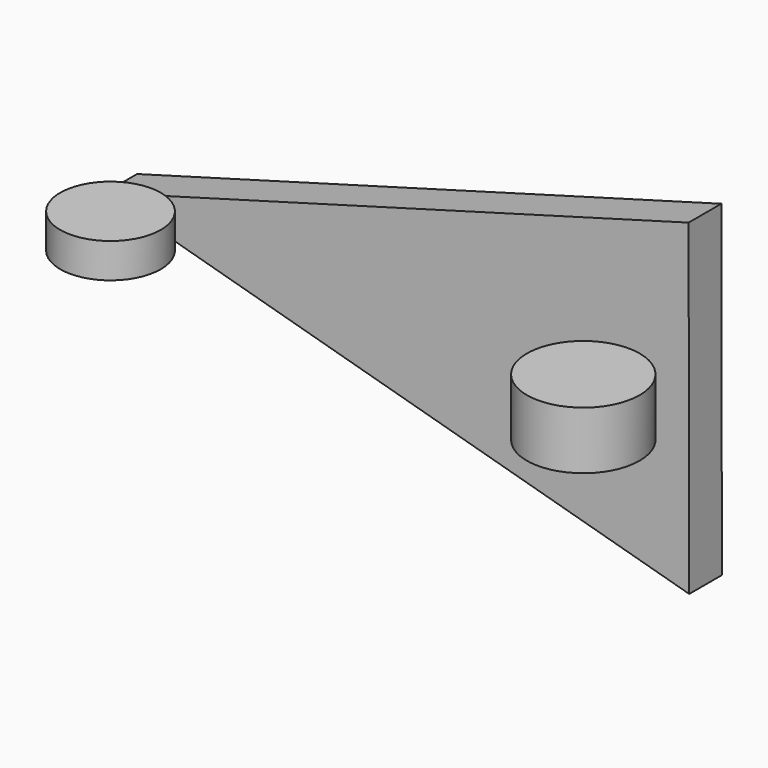
from build123d import *

# Parameters (mm, degrees)
F1_DEPTH      = 21.59
F2_R          = 26.555056
F3_DEPTH      = 10.414
F3_DEPTH_BACK = 7.874
F4_R          = 29.780474
F5_DEPTH      = 7.874
F5_DEPTH_BACK = 22.606


with BuildPart() as f1:
    # F0 (on Front) → F1 (new body)
    with BuildSketch(Plane.XZ):
        Polygon((154.001862, 86.486042), (-154.429659, 0), (154.323518, -86.007938), align=None)
    extrude(amount=F1_DEPTH)


with BuildPart() as f3:
    # F2 (on Top) → F3 (new body, two sides)
    with BuildSketch(Plane.XY) as f3_sk:
        with Locations((-129.689559, -48.475929)):
            Circle(F2_R)
    extrude(amount=F3_DEPTH)
    extrude(f3_sk.sketch, amount=-F3_DEPTH_BACK)


with BuildPart() as f5:
    # F4 (on face) → F5 (new body, two sides)
    with BuildSketch(Plane.XY.offset(10.414)) as f5_sk:
        with Locations((122.847579, -52.160703)):
            Circle(F4_R)
    extrude(amount=F5_DEPTH)
    extrude(f5_sk.sketch, amount=-F5_DEPTH_BACK)


solid = Compound([f1.part, f3.part, f5.part])
